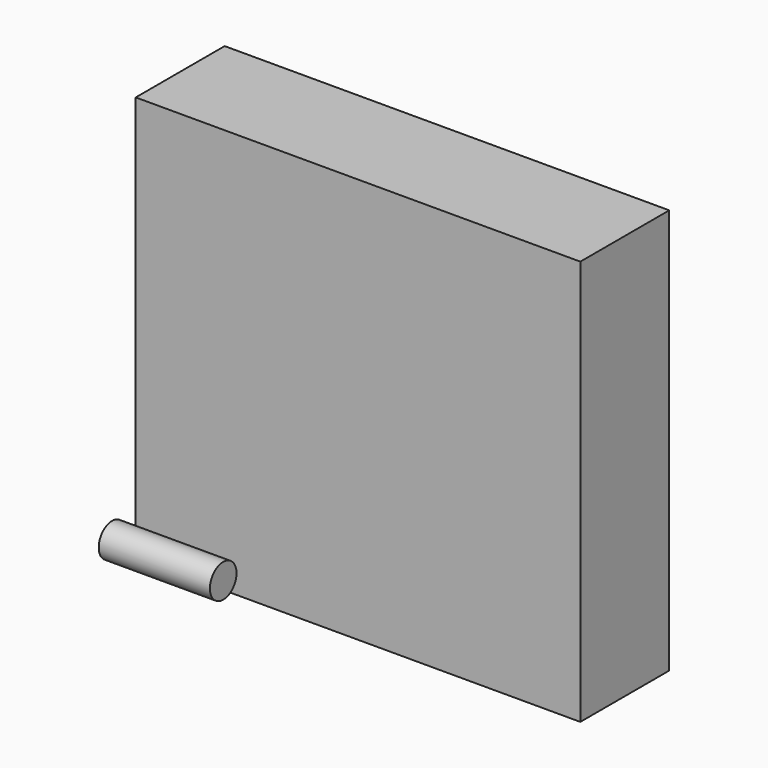
from build123d import *

# Parameters (mm, degrees)
F0_W     = 100
F0_H     = 91.139289
F1_DEPTH = 25
F2_R     = 5
F3_DEPTH = 25
F4_R     = 3.743875
F5_DEPTH = 25


with BuildPart() as f1:
    # F0 (on Front) → F1 (new body)
    with BuildSketch(Plane.XZ):
        with Locations((50, 45.569644)):
            Rectangle(F0_W, F0_H)
    extrude(amount=F1_DEPTH)


with BuildPart() as f3:
    # F2 (on Top) → F3 (new body)
    with BuildSketch(Plane.XY):
        with Locations((31.145737, 6.992146)):
            Circle(F2_R)
    extrude(amount=F3_DEPTH)


with BuildPart() as f5:
    # F4 (on Right) → F5 (new body)
    with BuildSketch(Plane.YZ):
        with Locations((-31.658903, 6.256125)):
            Circle(F4_R)
    extrude(amount=F5_DEPTH)


solid = Compound([f1.part, f3.part, f5.part])
